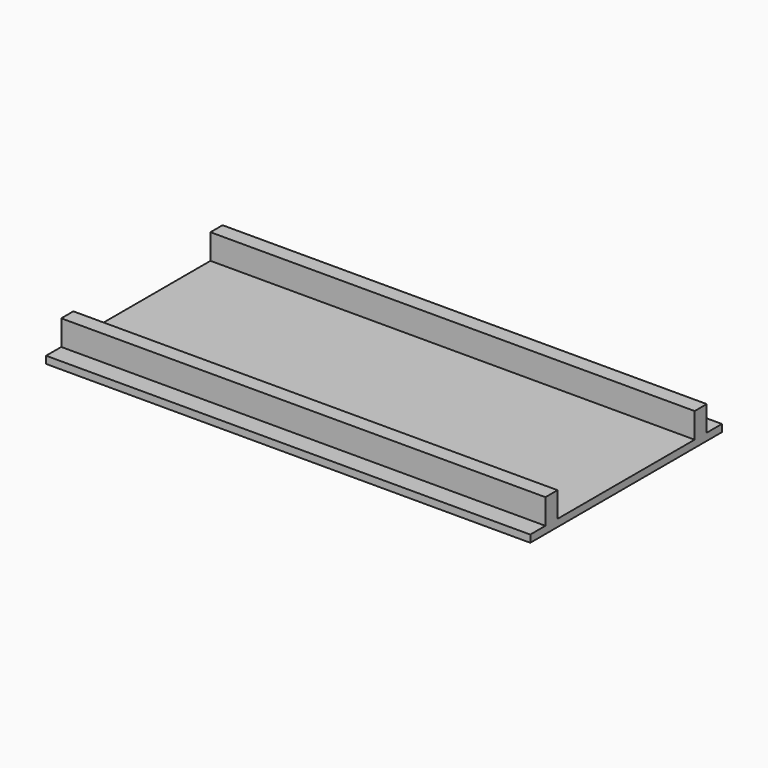
from build123d import *

# Parameters (mm, degrees)
F0_W     = 38.1
F0_H     = 63.5
F1_DEPTH = 609.6


with BuildPart() as f1:
    # F0 (on Right) → F1 (new body, symmetric)
    with BuildSketch(Plane.YZ):
        with Locations((-234.823, 31.75)):
            Rectangle(F0_W, F0_H)
        Polygon((-253.873, 0), (-301.625, 0), (-301.625, -18.25625), (301.625, -18.25625), (301.625, 0), (253.873, 0), (215.773, 0), (-215.773, 0), align=None)
        with Locations((234.823, 31.75)):
            Rectangle(F0_W, F0_H)
    extrude(amount=F1_DEPTH, both=True)


solid = f1.part
